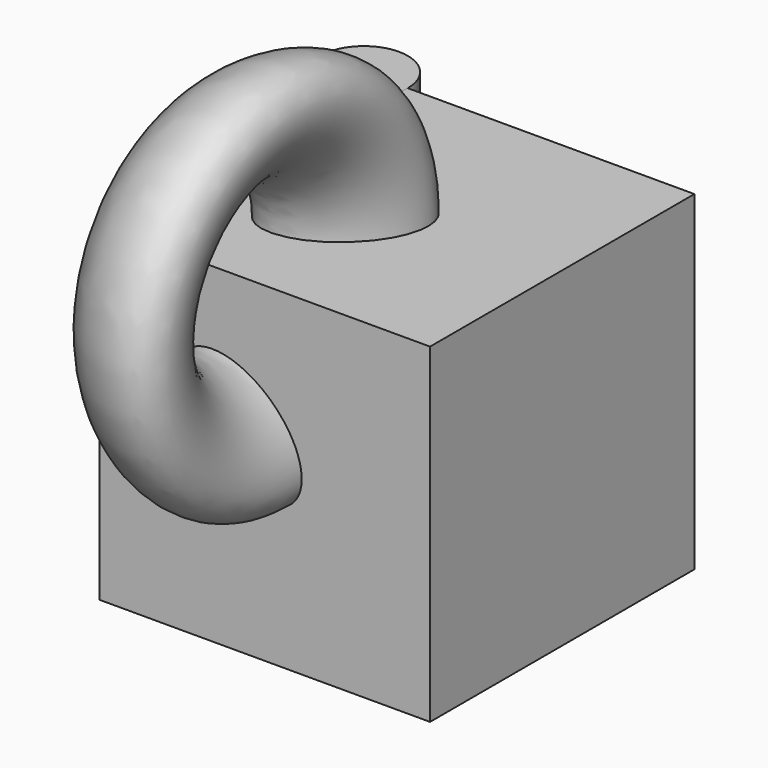
from build123d import *

# Parameters (mm, degrees)
F0_W     = 76.2
F0_H     = 76.2
F1_DEPTH = 76.2
F4_R     = 10.1088473741
F5_DEPTH = 76.2


with BuildPart() as f1:
    # F0 (on Top) → F1 (new body)
    with BuildSketch(Plane.XY):
        with Locations((38.1, 38.1)):
            Rectangle(F0_W, F0_H)
        with Locations((38.1, 38.1)):
            Rectangle(F0_W, F0_H)
    extrude(amount=F1_DEPTH)


with BuildPart() as f3:
    # F2 (on Front) → F3 (revolve)
    with BuildSketch(Plane.XZ):
        with BuildLine():
            add(Edge.make_bspline(
                [(44.7384156287, 34.3554392457), (56.9925669918, 47.9343674417), (32.0845129137, 58.0935865311), (7.1764588356, 68.2528056204), (19.8303615506, 44.5146583351), (32.4842642656, 20.7765110497), (44.7384156287, 34.3554392457)],
                knots=[0, 0, 0, 2.0943951024, 2.0943951024, 4.1887902048, 4.1887902048, 6.2831853072, 6.2831853072, 6.2831853072], degree=2, weights=[1, 0.5, 1, 0.5, 1, 0.5, 1]))
        make_face()
    revolve(axis=Axis((38.1, 0, 76.2), (1, 0, 0)))


with BuildPart() as f5:
    # F4 (on Top) → F5 (new body, through all)
    with BuildSketch(Plane.XY):
        with Locations((0, 76.2)):
            Circle(F4_R)
    extrude(amount=F5_DEPTH)


solid = Compound([f1.part, f3.part, f5.part])
